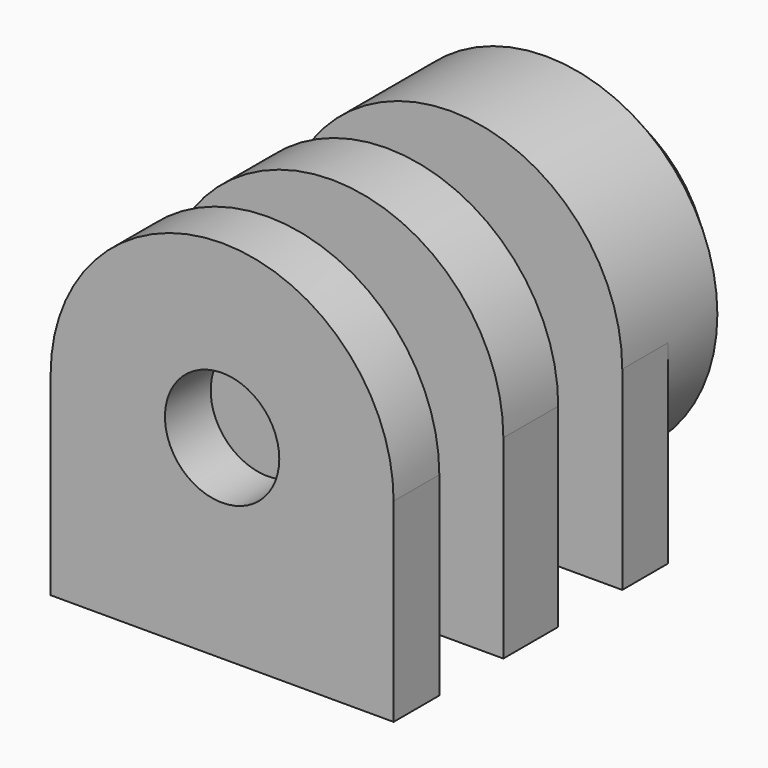
from build123d import *

# Parameters (mm, degrees)
F0_R     = 2.5
F1_DEPTH = 1.5
F2_START = 5
F2_DEPTH = 2.5
F3_START = -5
F3_DEPTH = 2.5
F4_START = -7.5
F4_DEPTH = 4.7
F5_SIZE  = 2


with BuildPart() as f1:
    # F0 (on Front) → F1 (new body, symmetric)
    with BuildSketch(Plane.XZ):
        with BuildLine():
            Line((7.5, -8.5), (7.5, 0))
            ThreePointArc((7.5, 0), (0, -7.5), (-7.5, 0))
            Line((-7.5, 0), (-7.5, -8.5))
            Line((-7.5, -8.5), (7.5, -8.5))
        make_face()
        with BuildLine():
            ThreePointArc((-7.5, 0), (0, -7.5), (7.5, 0))
            ThreePointArc((7.5, 0), (0, 7.5), (-7.5, 0))
        make_face()
        Polygon((2.1975, 3.8061816496), (4.395, 0), (2.1975, -3.8061816496), (-2.1975, -3.8061816496), (-4.395, 0), (-2.1975, 3.8061816496), align=None, mode=Mode.SUBTRACT)
        Polygon((2.1975, -3.8061816496), (4.395, 0), (2.1975, 3.8061816496), (-2.1975, 3.8061816496), (-4.395, 0), (-2.1975, -3.8061816496), align=None)
        Circle(F0_R, mode=Mode.SUBTRACT)
    extrude(amount=F1_DEPTH, both=True)


with BuildPart() as f2:
    # F0 (on Front) → F2 (new body)
    with BuildSketch(Plane.XZ.offset(F2_START)):
        with BuildLine():
            Line((7.5, -8.5), (7.5, 0))
            ThreePointArc((7.5, 0), (0, -7.5), (-7.5, 0))
            Line((-7.5, 0), (-7.5, -8.5))
            Line((-7.5, -8.5), (7.5, -8.5))
        make_face()
        with BuildLine():
            ThreePointArc((-7.5, 0), (0, -7.5), (7.5, 0))
            ThreePointArc((7.5, 0), (0, 7.5), (-7.5, 0))
        make_face()
        Polygon((2.1975, 3.8061816496), (4.395, 0), (2.1975, -3.8061816496), (-2.1975, -3.8061816496), (-4.395, 0), (-2.1975, 3.8061816496), align=None, mode=Mode.SUBTRACT)
        Polygon((2.1975, -3.8061816496), (4.395, 0), (2.1975, 3.8061816496), (-2.1975, 3.8061816496), (-4.395, 0), (-2.1975, -3.8061816496), align=None)
        Circle(F0_R, mode=Mode.SUBTRACT)
    extrude(amount=F2_DEPTH)


with BuildPart() as f3:
    # F0 (on Front) → F3 (new body)
    with BuildSketch(Plane.XZ.offset(F3_START)):
        with BuildLine():
            ThreePointArc((-7.5, 0), (0, -7.5), (7.5, 0))
            ThreePointArc((7.5, 0), (0, 7.5), (-7.5, 0))
        make_face()
        Polygon((2.1975, 3.8061816496), (4.395, 0), (2.1975, -3.8061816496), (-2.1975, -3.8061816496), (-4.395, 0), (-2.1975, 3.8061816496), align=None, mode=Mode.SUBTRACT)
        with BuildLine():
            Line((7.5, -8.5), (7.5, 0))
            ThreePointArc((7.5, 0), (0, -7.5), (-7.5, 0))
            Line((-7.5, 0), (-7.5, -8.5))
            Line((-7.5, -8.5), (7.5, -8.5))
        make_face()
        Polygon((2.1975, -3.8061816496), (4.395, 0), (2.1975, 3.8061816496), (-2.1975, 3.8061816496), (-4.395, 0), (-2.1975, -3.8061816496), align=None)
        Circle(F0_R, mode=Mode.SUBTRACT)
    extrude(amount=-F3_DEPTH)

    # F0 (on Front) → F4 (join)
    with BuildSketch(Plane.XZ.offset(F4_START)):
        with BuildLine():
            ThreePointArc((-7.5, 0), (0, -7.5), (7.5, 0))
            ThreePointArc((7.5, 0), (0, 7.5), (-7.5, 0))
        make_face()
        Polygon((2.1975, 3.8061816496), (4.395, 0), (2.1975, -3.8061816496), (-2.1975, -3.8061816496), (-4.395, 0), (-2.1975, 3.8061816496), align=None, mode=Mode.SUBTRACT)
    extrude(amount=-F4_DEPTH)

    # F5
    f5_edges = [f3.edges().sort_by_distance(p)[0] for p in [
        (-7.5, 12.2, 0),
    ]]
    chamfer(f5_edges, length=F5_SIZE)


solid = Compound([f1.part, f2.part, f3.part])
